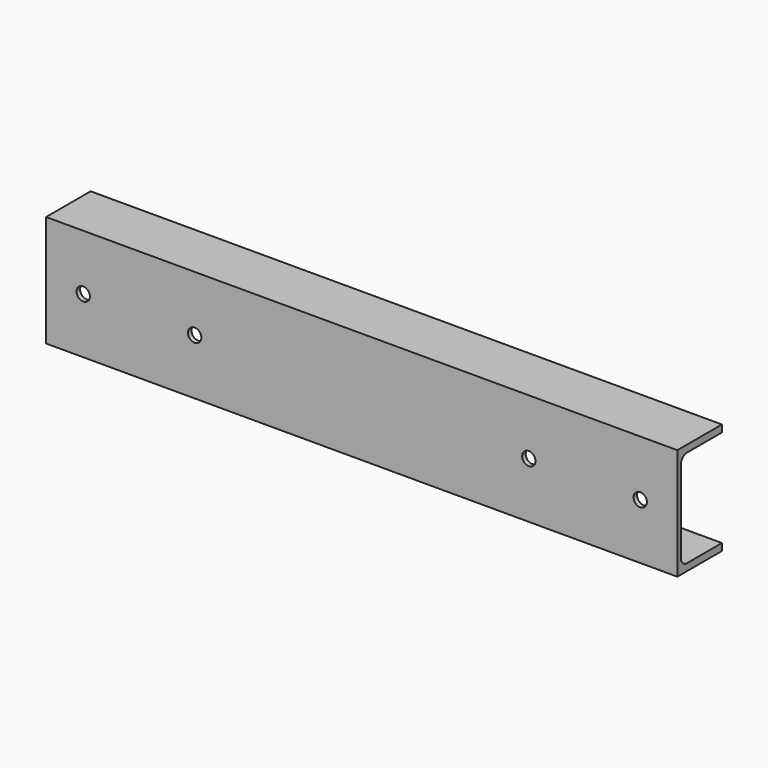
from build123d import *

# Parameters (mm, degrees)
F1_DEPTH = 425
F2_R     = 9
F3_DEPTH = 25


with BuildPart() as f1:
    # F0 (on Right) → F1 (new body, symmetric)
    with BuildSketch(Plane.YZ):
        with BuildLine():
            Line((75, -9.5), (75, 0))
            Line((75, 0), (0, 0))
            Line((0, 0), (0, -150))
            Line((0, -150), (75, -150))
            Line((75, -150), (75, -140.5))
            Line((75, -140.5), (16, -140.5))
            ThreePointArc((16, -140.5), (8.928932, -137.571068), (6, -130.5))
            Line((6, -130.5), (6, -19.5))
            ThreePointArc((6, -19.5), (8.928932, -12.428932), (16, -9.5))
            Line((16, -9.5), (75, -9.5))
        make_face()
    extrude(amount=F1_DEPTH, both=True)

    # F2 (on face) → F3 (cut)
    with BuildSketch(Plane.XZ):
        with Locations((-375, -75)):
            Circle(F2_R)
        with Locations((-225, -75)):
            Circle(F2_R)
        with Locations((225, -75)):
            Circle(F2_R)
        with Locations((375, -75)):
            Circle(F2_R)
    extrude(amount=-F3_DEPTH, mode=Mode.SUBTRACT)


solid = f1.part
